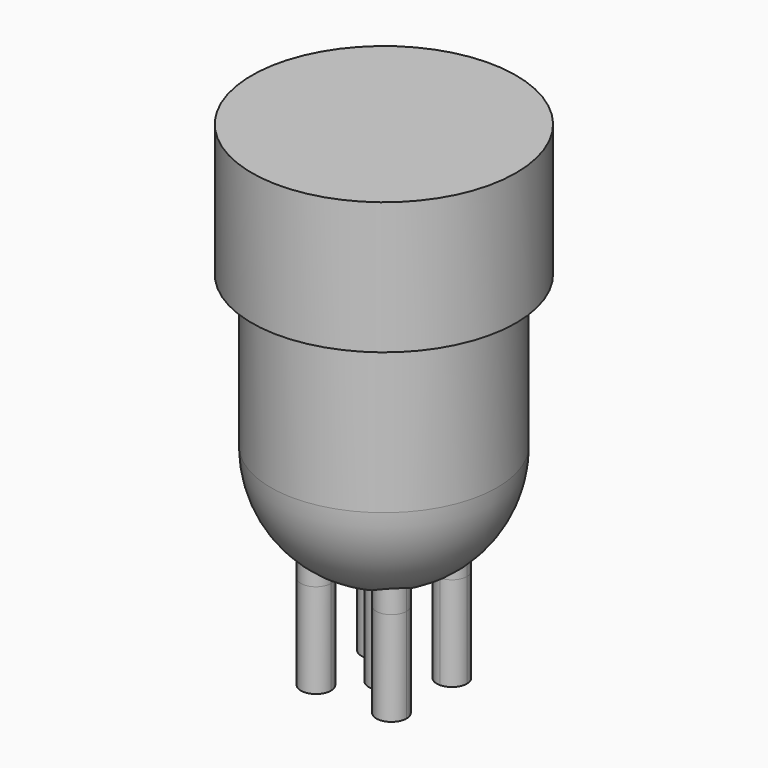
from build123d import *

# Parameters (mm, degrees)
F0_W     = 30
F0_H     = 40
F2_R     = 4
F3_DEPTH = 25
F4_DEPTH = 25


with BuildPart() as f1:
    # F0 (on Front) → F1 (revolve)
    with BuildSketch(Plane.XZ):
        Polygon((0, 105), (0, 70), (30, 70), (35, 70), (35, 105), align=None)
        with Locations((15, 50)):
            Rectangle(F0_W, F0_H)
        with BuildLine():
            Line((30, 30), (0, 30))
            Line((0, 30), (0, 0))
            ThreePointArc((0, 0), (21.2132034356, 8.7867965644), (30, 30))
        make_face()
    revolve(axis=Axis((0, 0, 50), (0, 0, -1)))

    # F2 (on Top) → F3 (join)
    with BuildSketch(Plane.XY):
        with BuildLine():
            ThreePointArc((14, 10), (10, 14), (6, 10))
            Line((6, 10), (10, 10))
            Line((10, 10), (10, 6))
            ThreePointArc((10, 6), (12.8284271247, 7.1715728753), (14, 10))
        make_face()
        with BuildLine():
            Line((-10, 10), (-6, 10))
            ThreePointArc((-6, 10), (-12.8284271247, 12.8284271247), (-10, 6))
            Line((-10, 6), (-10, 10))
        make_face()
        with BuildLine():
            ThreePointArc((14, -10), (12.8284271247, -7.1715728753), (10, -6))
            Line((10, -6), (10, -10))
            Line((10, -10), (6, -10))
            ThreePointArc((6, -10), (10, -14), (14, -10))
        make_face()
        with BuildLine():
            Line((-10, -10), (-10, -6))
            ThreePointArc((-10, -6), (-12.8284271247, -12.8284271247), (-6, -10))
            Line((-6, -10), (-10, -10))
        make_face()
        with BuildLine():
            Line((10, 10), (6, 10))
            ThreePointArc((6, 10), (7.1715728753, 7.1715728753), (10, 6))
            Line((10, 6), (10, 10))
        make_face()
        with BuildLine():
            ThreePointArc((-10, 6), (-7.1715728753, 7.1715728753), (-6, 10))
            Line((-6, 10), (-10, 10))
            Line((-10, 10), (-10, 6))
        make_face()
        with BuildLine():
            Line((10, -10), (10, -6))
            ThreePointArc((10, -6), (7.1715728753, -7.1715728753), (6, -10))
            Line((6, -10), (10, -10))
        make_face()
        with BuildLine():
            ThreePointArc((-6, -10), (-7.1715728753, -7.1715728753), (-10, -6))
            Line((-10, -6), (-10, -10))
            Line((-10, -10), (-6, -10))
        make_face()
        Circle(F2_R)
    extrude(amount=F3_DEPTH)

    # F4 (add): faces of the model
    f4_faces = [f1.faces().sort_by_distance(p)[0] for p in [
        (-10, -10, 0),
        (0, 0, 0),
        (-10, 10, 0),
        (10, -10, 0),
        (10, 10, 0),
    ]]
    extrude(f4_faces, amount=F4_DEPTH)


solid = f1.part
